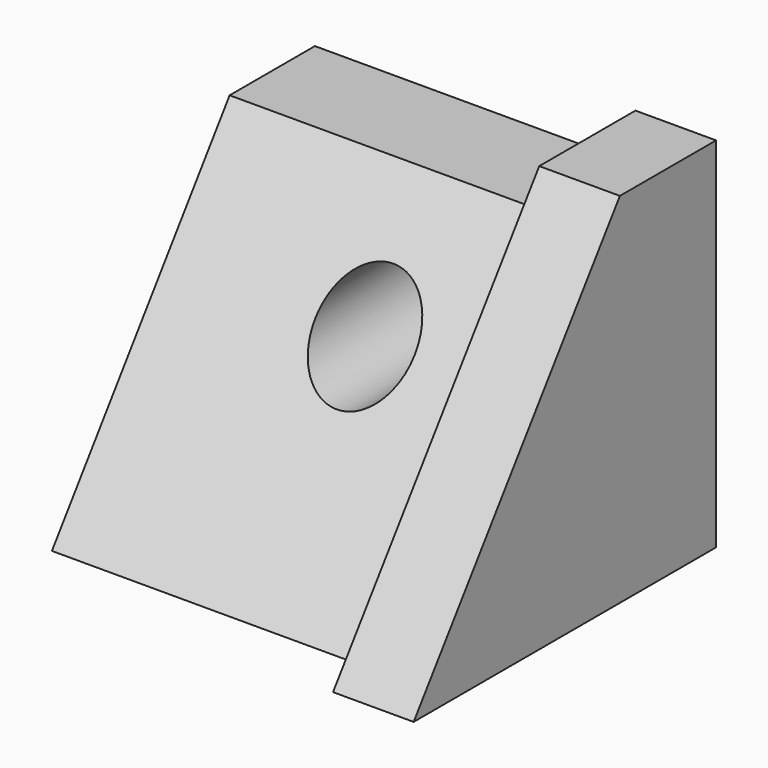
from build123d import *

# Parameters (mm, degrees)
F0_R     = 16.69467
F1_DEPTH = 127
F3_DEPTH = 136.144
F5_DEPTH = 107.696


with BuildPart() as f1:
    # F0 (on Front) → F1 (new body)
    with BuildSketch(Plane.XZ):
        Polygon((67.391418, 54.243322), (0, 54.243322), (-67.391418, 54.243322), (-67.391418, -66.123113), (0, -66.123113), (67.391418, -66.123113), align=None)
        Circle(F0_R, mode=Mode.SUBTRACT)
    extrude(amount=F1_DEPTH)

    # F2 (on face) → F3 (cut)
    with BuildSketch(Plane(origin=(-67.391418, 0, 0), x_dir=(0, -1, 0), z_dir=(-1, 0, 0))):
        Polygon((127, 54.243322), (40.401872, 54.243322), (127, -66.123113), align=None)
    extrude(amount=-F3_DEPTH, mode=Mode.SUBTRACT)

    # F4 (on face) → F5 (cut)
    with BuildSketch(Plane(origin=(-67.391418, 0, 0), x_dir=(0, -1, 0), z_dir=(-1, 0, 0))):
        Polygon((0, 54.243322), (0, 38.296405), (35.804231, 38.296405), (110.428944, -66.123113), (127, -66.123113), (40.401872, 54.243322), align=None)
    extrude(amount=-F5_DEPTH, mode=Mode.SUBTRACT)


solid = f1.part
